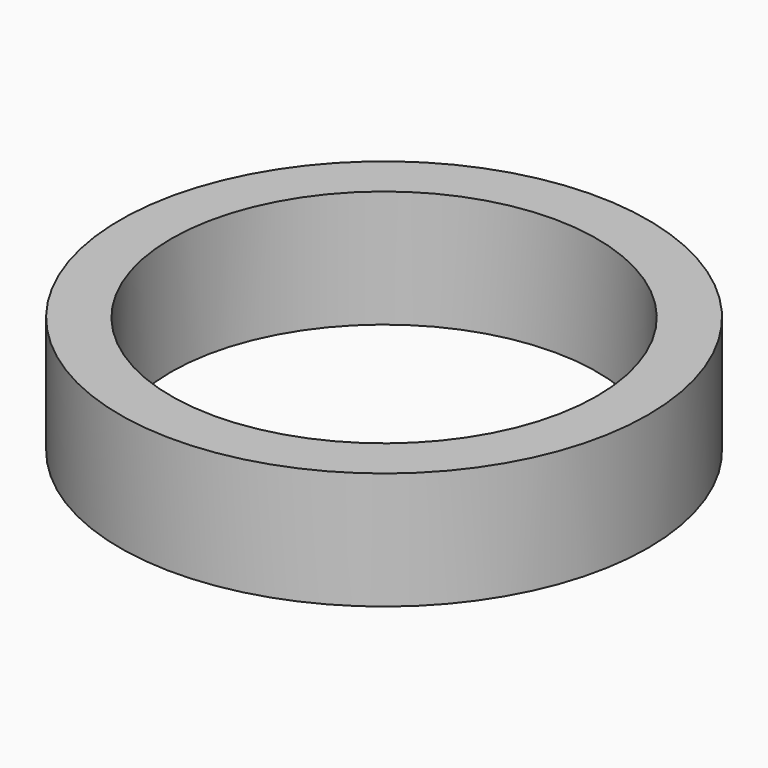
from build123d import *

# Parameters (mm, degrees)
F0_R     = 57.21436
F1_DEPTH = 25.4
F2_R     = 46.159754
F3_DEPTH = 25.4
F4_W     = 13.088044
F4_H     = 22.873998
F5_DEPTH = 25.4


with BuildPart() as f1:
    # F0 (on Top) → F1 (new body)
    with BuildSketch(Plane.XY):
        Circle(F0_R)
    extrude(amount=F1_DEPTH)

    # F2 (on Top) → F3 (cut)
    with BuildSketch(Plane.XY):
        Circle(F2_R)
    extrude(amount=F3_DEPTH, mode=Mode.SUBTRACT)

    # F4 (on Top) → F5 (cut)
    with BuildSketch(Plane.XY):
        with Locations((0, 182.986438)):
            Rectangle(F4_W, F4_H)
    extrude(amount=F5_DEPTH, mode=Mode.SUBTRACT)


solid = f1.part
